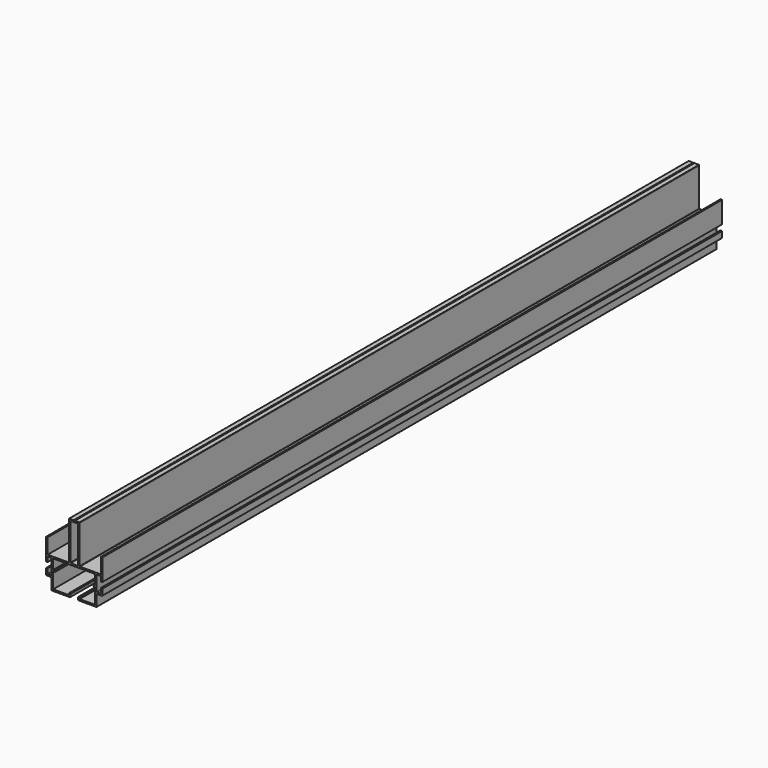
from build123d import *

# Parameters (mm, degrees)
F1_DEPTH = 1000
F2_R     = 0.5
F5_DEPTH = 1000


with BuildPart() as f1:
    # F0 (on Front) → F1 (new body)
    with BuildSketch(Plane.XZ):
        Polygon((0, -5), (0, -3), (-7, -3), (-7, -53), (-34.3, -53), (-34.3, -33), (-36.3, -33), (-36.3, -61.5), (-34.3, -61.5), (-34.3, -55), (-29.1, -55), (-29.1, -75), (-34.3, -75), (-34.3, -68.5), (-36.3, -68.5), (-36.3, -77), (-29.1, -77), (-29.1, -92), (-5, -92), (-5, -88), (-7, -88), (-7, -90), (-27.1, -90), (-27.1, -69.9), (-25.1, -69.9), (-25.1, -67.9), (-27.1, -67.9), (-27.1, -55), (0, -55), (0, -53), (-5, -53), (-5, -5), align=None)
    extrude(amount=F1_DEPTH)

    # F2
    f2_edges = [f1.edges().sort_by_distance(p)[0] for p in [
        (-36.3, -500, -33),
        (-36.3, -500, -68.5),
        (-5, -500, -92),
        (-5, -500, -88),
        (-7, -500, -3),
        (-34.3, -500, -33),
        (-5, -500, -53),
        (-25.1, -500, -67.9),
        (-29.1, -500, -92),
        (-36.3, -500, -77),
        (-36.3, -500, -61.5),
        (-7, -500, -53),
    ]]
    fillet(f2_edges, radius=F2_R)

    # F3: F1 across plane


with BuildPart() as f1_1:
    add(f1.part)
    add(f1.part.mirror(Plane.YZ))

    # F4 (on face) → F5 (cut)
    with BuildSketch(Plane.XZ.offset(1000)):
        Polygon((0, -3.5), (0, -3), (-0.83214, -3), align=None)
        Polygon((0.83214, -3), (0, -3), (0, -3.5), align=None)
    extrude(amount=-F5_DEPTH, mode=Mode.SUBTRACT)


solid = f1_1.part
